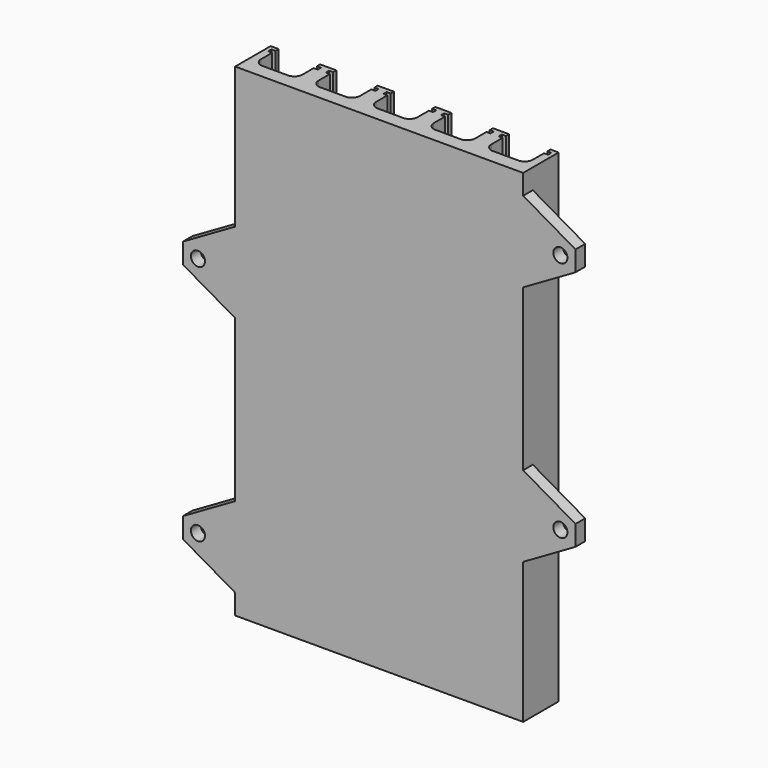
from build123d import *

# Parameters (mm, degrees)
PAD_DEPTH    = 120
SKETCH001_R  = 1.75
PAD001_DEPTH = 3
FILLET_R     = 2


with BuildPart() as part:
    # Sketch → Pad (new body)
    with BuildSketch(Plane.XY):
        Polygon((0, 0), (71.5, 0), (71.5, 11), (69.5, 11), (69.5, 10), (70.5, 10), (70.5, 9), (69.5, 9), (69.5, 3.5), (59.2, 3.5), (59.2, 9), (58.2, 9), (58.2, 10), (59.2, 10), (59.2, 11), (55.2, 11), (55.2, 10), (56.2, 10), (56.2, 9), (55.2, 9), (55.2, 3.5), (44.9, 3.5), (44.9, 9), (43.9, 9), (43.9, 10), (44.9, 10), (44.9, 11), (40.9, 11), (40.9, 10), (41.9, 10), (41.9, 9), (40.9, 9), (40.9, 3.5), (30.6, 3.5), (30.6, 9), (29.6, 9), (29.6, 10), (30.6, 10), (30.6, 11), (26.6, 11), (26.6, 10), (27.6, 10), (27.6, 9), (26.6, 9), (26.6, 3.5), (16.3, 3.5), (16.3, 9), (15.3, 9), (15.3, 10), (16.3, 10), (16.3, 11), (12.3, 11), (12.3, 10), (13.3, 10), (13.3, 9), (12.3, 9), (12.3, 3.5), (2, 3.5), (2, 9), (1, 9), (1, 10), (2, 10), (2, 11), (0, 11), align=None)
    extrude(amount=PAD_DEPTH)

    # Sketch001 → Pad001 (join)
    with BuildSketch(Plane.XZ):
        Polygon((0, 4.994447), (-13, 12.5), (-13, 17.5), (0, 25.005553), align=None)
        with Locations((-9.25, 15)):
            Circle(SKETCH001_R, mode=Mode.SUBTRACT)
        Polygon((0, 65.005553), (-13, 72.5), (-13, 77.5), (0, 84.994447), align=None)
        with Locations((-9.25, 75)):
            Circle(SKETCH001_R, mode=Mode.SUBTRACT)
        Polygon((71.5, 34.994447), (84.5, 42.5), (84.5, 47.5), (71.5, 55.005553), align=None)
        with Locations((80.75, 45)):
            Circle(SKETCH001_R, mode=Mode.SUBTRACT)
        Polygon((71.5, 94.994447), (84.5, 102.5), (84.5, 107.5), (71.5, 115.005553), align=None)
        with Locations((80.75, 105)):
            Circle(SKETCH001_R, mode=Mode.SUBTRACT)
    extrude(amount=-PAD001_DEPTH)

    # Fillet
    fillet_edges = [part.edges().sort_by_distance(p)[0] for p in [
        (2, 3.5, 60),
        (16.3, 3.5, 60),
        (30.6, 3.5, 60),
        (44.9, 3.5, 60),
        (59.2, 3.5, 60),
        (12.3, 3.5, 60),
        (26.6, 3.5, 60),
        (40.9, 3.5, 60),
        (55.2, 3.5, 60),
        (69.5, 3.5, 60),
    ]]
    fillet(fillet_edges, radius=FILLET_R)


solid = part.part
